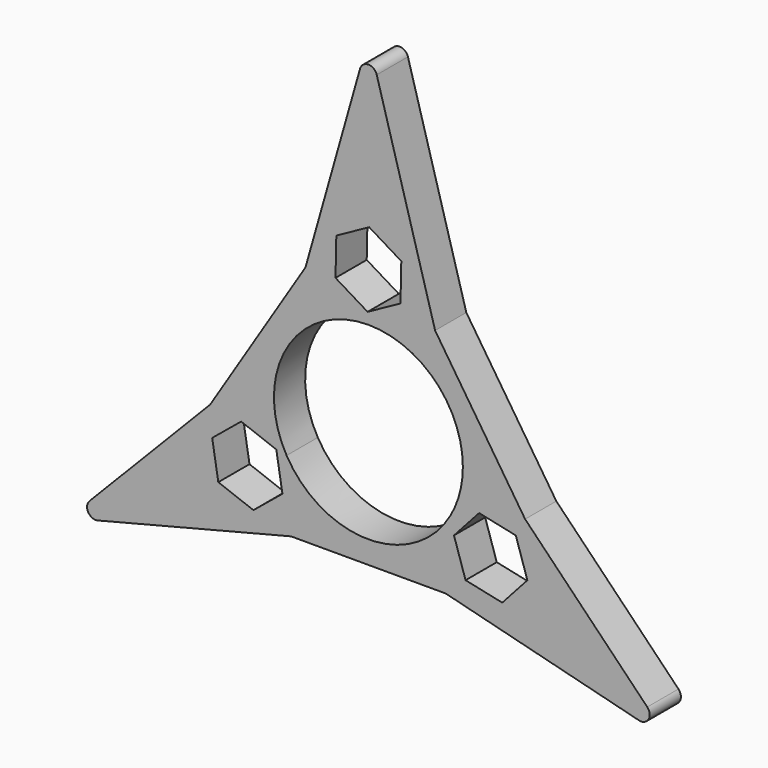
from build123d import *

# Parameters (mm, degrees)
F1_DEPTH = 4.5
F2_R     = 1
F4_DEPTH = 25


with BuildPart() as f1:
    # F0 (on Front) → F1 (new body)
    with BuildSketch(Plane.XZ):
        with BuildLine():
            ThreePointArc((0, 10.9), (7.707464, 7.707464), (10.9, 0))
            ThreePointArc((10.9, 0), (10.528592, -2.821128), (9.439677, -5.45))
            Line((9.439677, -5.45), (34.641016, -20))
            Line((34.641016, -20), (18.084448, -2.966725))
            Line((18.084448, -2.966725), (7.698172, 12.818934))
            Line((7.698172, 12.818934), (0, 40))
            Line((0, 40), (0, 10.9))
        make_face()
        with BuildLine():
            ThreePointArc((-9.439677, -5.45), (-9.439677, 5.45), (0, 10.9))
            Line((0, 10.9), (0, 40))
            Line((0, 40), (-7.25986, 14.366547))
            Line((-7.25986, 14.366547), (-18.265326, -3.152812))
            Line((-18.265326, -3.152812), (-34.641016, -20))
            Line((-34.641016, -20), (-9.439677, -5.45))
        make_face()
        with BuildLine():
            Line((34.641016, -20), (9.439677, -5.45))
            ThreePointArc((9.439677, -5.45), (0, -10.9), (-9.439677, -5.45))
            Line((-9.439677, -5.45), (-34.641016, -20))
            Line((-34.641016, -20), (-8.926296, -13.499424))
            Line((-8.926296, -13.499424), (8.926296, -13.499424))
            Line((8.926296, -13.499424), (34.641016, -20))
        make_face()
    extrude(amount=F1_DEPTH)

    # F2
    f2_edges = [f1.edges().sort_by_distance(p)[0] for p in [
        (0, -2.25, 40),
        (34.641016, -2.25, -20),
        (-34.641016, -2.25, -20),
    ]]
    fillet(f2_edges, radius=F2_R)

    # F3 (on face) → F4 (cut)
    with BuildSketch(Plane(origin=(0, 0, 0), x_dir=(-1, 0, 0), z_dir=(0, 1, 0))):
        Polygon((-11.210982, -11.404401), (-9.875284, -7.285431), (-12.774568, -4.069198), (-17.009549, -4.971935), (-18.345247, -9.090904), (-15.445963, -12.307137), align=None)
        Polygon((17.32114, -10.724252), (18.027603, -6.452143), (14.68108, -3.704275), (10.628094, -5.228514), (9.921631, -9.500623), (13.268154, -12.248491), align=None)
        Polygon((0.09283, 12.183193), (3.795553, 14.428152), (3.702723, 18.757284), (-0.09283, 20.841457), (-3.795553, 18.596498), (-3.702723, 14.267366), align=None)
    extrude(amount=-F4_DEPTH, mode=Mode.SUBTRACT)


solid = f1.part
